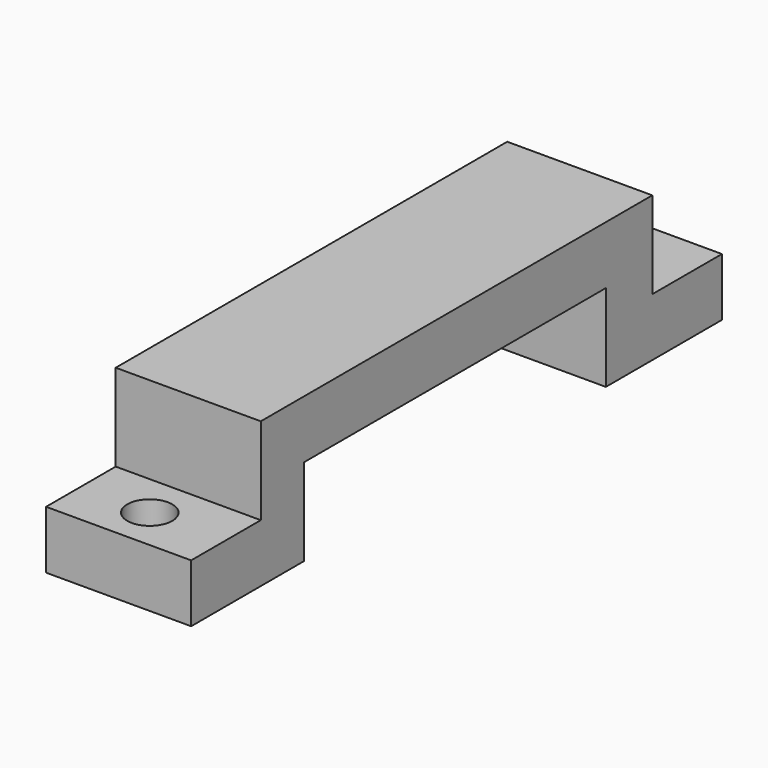
from build123d import *

# Parameters (mm, degrees)
F0_W     = 6
F0_H     = 4
F0_W_2   = 26
F1_DEPTH = 10
F3_D     = 3.1


with BuildPart() as f1:
    # F0 (on Right) → F1 (new body)
    with BuildSketch(Plane.YZ):
        Polygon((-8.098859, -4), (-8.098859, 0), (-11.832699, 0), (-11.832699, -6), (-11.832699, -10), (-8.098859, -10), align=None)
        with Locations((-14.832699, -8)):
            Rectangle(F0_W, F0_H)
        with Locations((4.901141, -2)):
            Rectangle(F0_W_2, F0_H)
        Polygon((21.901141, 0), (17.901141, 0), (17.901141, -4), (17.901141, -10), (21.901141, -10), (21.901141, -6), align=None)
        with Locations((24.901141, -8)):
            Rectangle(F0_W, F0_H)
    extrude(amount=F1_DEPTH)

    # F3 (through all)
    with Locations(Plane.XY):
        with Locations((4.781065, -14.87558), (4.865282, 25.127819)):
            Hole(F3_D / 2)


solid = f1.part
